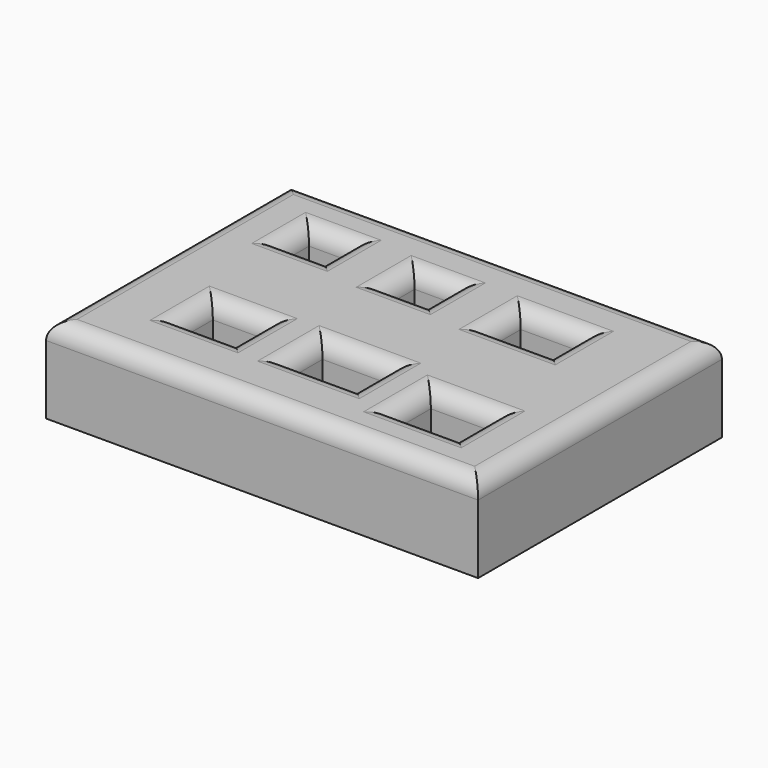
from build123d import *

# Parameters (mm, degrees)
F0_W     = 127.737302
F0_H     = 90.112857
F1_DEPTH = 25.4
F2_W     = 11.786669
F2_H     = 10.160922
F2_W_2   = 18.289661
F2_H_2   = 11.380233
F2_W_3   = 15.851038
F2_H_3   = 11.786668
F2_W_4   = 19.915408
F2_H_4   = 12.599544
F2_W_5   = 18.696092
F2_H_5   = 13.412416
F2_W_6   = 12.193104
F2_H_6   = 9.754487
F3_DEPTH = 25.4
F4_R     = 5.08


with BuildPart() as f1:
    # F0 (on Top) → F1 (new body)
    with BuildSketch(Plane.XY):
        with Locations((8.128738, -7.548112)):
            Rectangle(F0_W, F0_H)
    extrude(amount=F1_DEPTH)

    # F2 (on face) → F3 (cut)
    with BuildSketch(Plane.XY.offset(25.4)):
        with Locations((0.609656, 15.444601)):
            Rectangle(F2_W, F2_H)
        with Locations((35.563227, 14.42851)):
            Rectangle(F2_W_2, F2_H_2)
        with Locations((-24.182993, -26.418396)):
            Rectangle(F2_W_3, F2_H_3)
        with Locations((9.957704, -26.418398)):
            Rectangle(F2_W_4, F2_H_4)
        with Locations((44.301618, -30.482765)):
            Rectangle(F2_W_5, F2_H_5)
        with Locations((-31.702076, 17.273567)):
            Rectangle(F2_W_6, F2_H_6)
    extrude(amount=-F3_DEPTH, mode=Mode.SUBTRACT)

    # F4
    f4_edges = [f1.edges().sort_by_distance(p)[0] for p in [
        (-31.702076, 22.150811, 25.4),
        (-37.798628, 17.273568, 25.4),
        (-31.702076, 12.396324, 25.4),
        (-25.605524, 17.273568, 25.4),
        (0.609656, 20.525062, 25.4),
        (6.502991, 15.444601, 25.4),
        (0.609656, 10.36414, 25.4),
        (-5.283678, 15.444601, 25.4),
        (35.563228, 20.118626, 25.4),
        (35.563228, 8.738393, 25.4),
        (26.418397, 14.428509, 25.4),
        (44.708058, 14.428509, 25.4),
        (19.915408, -26.418398, 25.4),
        (9.957704, -32.71817, 25.4),
        (0, -26.418398, 25.4),
        (9.957704, -20.118626, 25.4),
        (34.953572, -30.482765, 25.4),
        (44.301618, -23.776557, 25.4),
        (53.649664, -30.482765, 25.4),
        (44.301618, -37.188973, 25.4),
        (-32.108512, -26.418396, 25.4),
        (-24.182993, -20.525062, 25.4),
        (-24.182993, -32.31173, 25.4),
        (-16.257474, -26.418396, 25.4),
        (8.128738, 37.508316, 25.4),
        (71.997389, -7.548112, 25.4),
        (8.128738, -52.604541, 25.4),
        (-55.739913, -7.548112, 25.4),
    ]]
    fillet(f4_edges, radius=F4_R)


solid = f1.part
